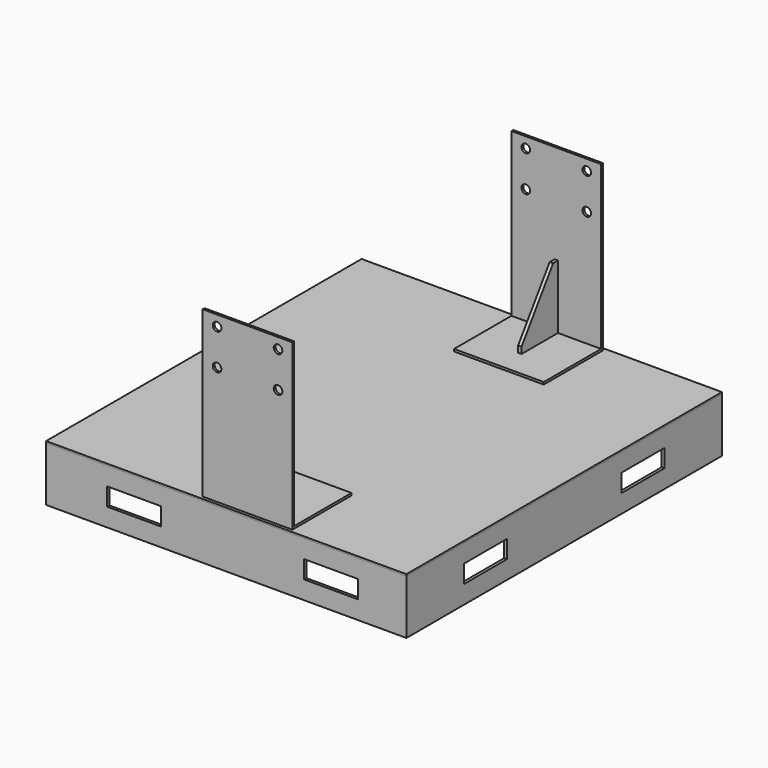
from build123d import *

# Parameters (mm, degrees)
F0_W      = 1005
F0_H      = 1100
F1_DEPTH  = 4.76
F4_W      = 150
F4_H      = 50
F5_DEPTH  = 1005.001
F6_W      = 150
F6_H      = 50
F7_DEPTH  = 1100.001
F8_W      = 250
F8_H      = 200
F9_DEPTH  = 6.35
F10_W     = 250
F10_H     = 6.35
F11_DEPTH = 460
F12_W     = 9.52
F12_H     = 178
F13_DEPTH = 127
F14_SIZE2 = 160
F14_SIZE  = 110
F15_R     = 12
F16_DEPTH = 15.001


with BuildPart() as f1:
    # F0 (on Top) → F1 (new body)
    with BuildSketch(Plane.XY):
        Rectangle(F0_W, F0_H)
    extrude(amount=F1_DEPTH)


with BuildPart() as f3:
    # F3: sweep along a path in F3_path
    with BuildLine(Plane(origin=(502.5, 550, 0), x_dir=(0, 1, 0), z_dir=(0, 0, 1))) as f3_path:
        Line((0, 0), (-1100, 0))
        Line((-1100, 0), (-1100, 1005))
        Line((-1100, 1005), (0, 1005))
        Line((0, 1005), (0, 0))
    # F2 (on Front) → F3 (sweep)
    with BuildSketch(Plane.XZ):
        with BuildLine():
            Line((502.5, -152), (502.5, 0))
            Line((502.5, 0), (454.5, 0))
            Line((454.5, 0), (454.5, -3.2776251584))
            ThreePointArc((454.5, -3.2776251584), (454.9845195792, -4.5827378333), (456.2033190941, -5.2554978641))
            Line((456.2033190941, -5.2554978641), (492.7966809059, -10.7445021359))
            ThreePointArc((492.7966809059, -10.7445021359), (494.0154804208, -11.4172621667), (494.5, -12.7223748416))
            Line((494.5, -12.7223748416), (494.5, -139.2776251584))
            ThreePointArc((494.5, -139.2776251584), (494.0154804208, -140.5827378333), (492.7966809059, -141.2554978641))
            Line((492.7966809059, -141.2554978641), (456.2033190941, -146.7445021359))
            ThreePointArc((456.2033190941, -146.7445021359), (454.9845195792, -147.4172621667), (454.5, -148.7223748416))
            Line((454.5, -148.7223748416), (454.5, -152))
            Line((454.5, -152), (502.5, -152))
        make_face()
    sweep(path=f3_path.line, transition=Transition.RIGHT)

    # F4 (on face) → F5 (cut, through all)
    with BuildSketch(Plane.YZ.offset(502.5)):
        with Locations((-275, -76)):
            Rectangle(F4_W, F4_H)
        with Locations((275, -76)):
            Rectangle(F4_W, F4_H)
    extrude(amount=-F5_DEPTH, mode=Mode.SUBTRACT)

    # F6 (on face) → F7 (cut, through all)
    with BuildSketch(Plane.XZ.offset(550)):
        with Locations((-257.5, -76)):
            Rectangle(F6_W, F6_H)
        with Locations((292.5, -76)):
            Rectangle(F6_W, F6_H)
    extrude(amount=-F7_DEPTH, mode=Mode.SUBTRACT)


with BuildPart() as f9:
    # F8 (on face) → F9 (new body)
    with BuildSketch(Plane.XY.offset(4.76)):
        with Locations((52.5, -435)):
            Rectangle(F8_W, F8_H)
    extrude(amount=F9_DEPTH)


with BuildPart() as f11:
    # F10 (on face) → F11 (new body)
    with BuildSketch(Plane.XY.offset(4.76)):
        with Locations((52.5, -538.175)):
            Rectangle(F10_W, F10_H)
    extrude(amount=F11_DEPTH)

    # F15 (on face) → F16 (cut, through all)
    with BuildSketch(Plane(origin=(0, -535, 0), x_dir=(-1, 0, 0), z_dir=(0, 1, 0))):
        with Locations((-137.5, 434.76)):
            Circle(F15_R)
        with Locations((32.5, 434.76)):
            Circle(F15_R)
        with Locations((-137.5, 334.76)):
            Circle(F15_R)
        with Locations((32.5, 334.76)):
            Circle(F15_R)
    extrude(amount=-F16_DEPTH, mode=Mode.SUBTRACT)


with BuildPart() as f13:
    # F12 (on face) → F13 (new body)
    with BuildSketch(Plane(origin=(0, -535, 0), x_dir=(-1, 0, 0), z_dir=(0, 1, 0))):
        with Locations((-52.5, 100.11)):
            Rectangle(F12_W, F12_H)
    extrude(amount=F13_DEPTH)

    # F14
    f14_edges = [f13.edges().sort_by_distance(p)[0] for p in [
        (52.5, -408, 189.11),
    ]]
    f14_side = f13.faces().sort_by_distance((52.5, -471.5, 189.11))[0]
    chamfer(f14_edges, length=F14_SIZE, length2=F14_SIZE2, reference=f14_side)


with BuildPart() as f17_1:
    # F17: instance of F9
    add(f9.part.mirror(Plane.XZ))


with BuildPart() as f17_2:
    # F17: instance of F13
    add(f13.part.mirror(Plane.XZ))


with BuildPart() as f17_3:
    # F17: instance of F11
    add(f11.part.mirror(Plane.XZ))


solid = Compound([f1.part, f3.part, f9.part, f11.part, f13.part, f17_1.part, f17_2.part, f17_3.part])
